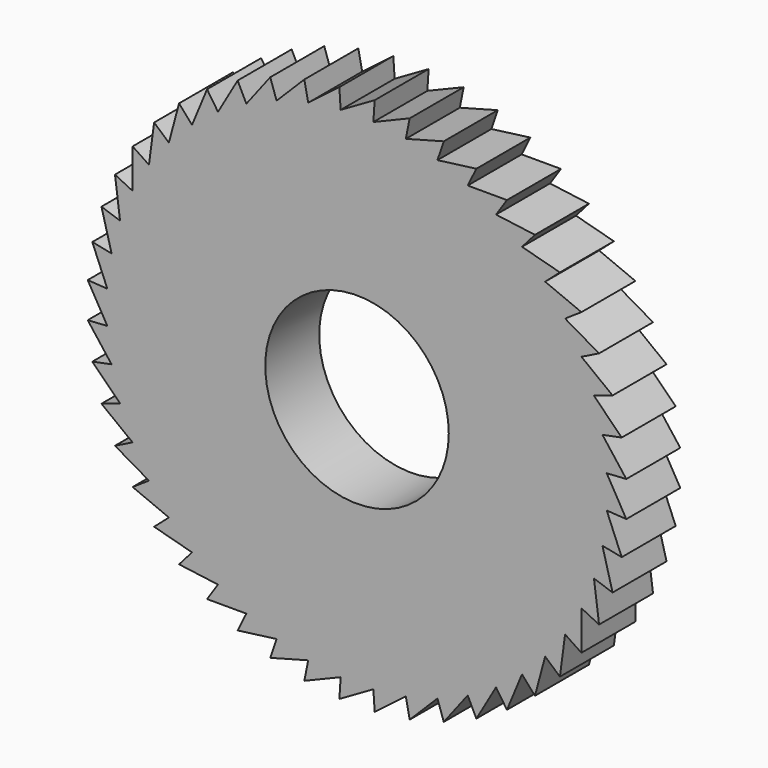
from build123d import *

# Parameters (mm, degrees)
F0_R     = 8.905875
F1_DEPTH = 9.525
F2_R     = 12.954
F2_R_2   = 8.905875
F3_DEPTH = 34.29


with BuildPart() as f1:
    # F0 (on Front) → F1 (new body)
    with BuildSketch(Plane.XZ):
        Polygon((-48.517683, 30.776316), (-53.640253, 28.657804), (-53.45877, 31.42681), (-58.260996, 28.657804), (-58.442479, 31.42681), (-62.842216, 28.054681), (-63.383566, 30.776316), (-67.305504, 26.858747), (-68.197476, 29.486428), (-71.574508, 25.090476), (-72.801836, 27.579244), (-75.576176, 22.780092), (-77.117854, 25.087377), (-79.242056, 19.967169), (-81.071695, 22.053499), (-82.509411, 16.699814), (-84.595716, 18.529478), (-85.322334, 13.033934), (-87.629619, 14.575612), (-87.632718, 9.032265), (-90.121486, 10.259593), (-89.40099, 4.763262), (-92.02867, 5.655234), (-90.596923, 0.299974), (-93.318559, 0.84135), (-91.200046, -4.281246), (-93.969053, -4.099738), (-91.200046, -8.901963), (-93.969053, -9.083472), (-90.596923, -13.483184), (-93.318559, -14.024534), (-89.40099, -17.946472), (-92.02867, -18.838443), (-87.632718, -22.215475), (-90.121486, -23.442803), (-85.322334, -26.217143), (-87.629619, -27.758822), (-82.509411, -29.883024), (-84.595716, -31.712687), (-79.242056, -33.150378), (-81.071695, -35.236709), (-75.576176, -35.963301), (-77.117854, -38.270586), (-71.574508, -38.273685), (-72.801836, -40.762453), (-67.305504, -40.041957), (-68.197476, -42.669638), (-62.842216, -41.237891), (-63.383566, -43.959526), (-58.260996, -41.841014), (-58.442479, -44.61002), (-53.640253, -41.841014), (-53.45877, -44.61002), (-49.059059, -41.237891), (-48.517683, -43.959526), (-44.595771, -40.041957), (-43.703799, -42.669638), (-40.326767, -38.273685), (-39.099439, -40.762453), (-36.325073, -35.963301), (-34.783395, -38.270586), (-32.659218, -33.150378), (-30.829555, -35.236709), (-29.391864, -29.883024), (-27.305533, -31.712687), (-26.578916, -26.217143), (-24.27163, -27.758822), (-24.268557, -22.215475), (-21.779789, -23.442803), (-22.500285, -17.946472), (-19.872604, -18.838443), (-21.304352, -13.483184), (-18.582716, -14.024534), (-20.701203, -8.901963), (-17.932197, -9.083472), (-20.701203, -4.281246), (-17.932197, -4.099738), (-21.304352, 0.299974), (-18.582716, 0.84135), (-22.500285, 4.763262), (-19.872604, 5.655234), (-24.268557, 9.032265), (-21.779789, 10.259593), (-26.578916, 13.033934), (-24.27163, 14.575612), (-29.391864, 16.699814), (-27.305533, 18.529478), (-32.659218, 19.967169), (-30.829555, 22.053499), (-36.325073, 22.780092), (-34.783395, 25.087377), (-40.326767, 25.090476), (-39.099439, 27.579244), (-44.595771, 26.858747), (-43.703799, 29.486428), (-49.059059, 28.054681), align=None)
        with Locations((-55.950637, -6.591605)):
            Circle(F0_R, mode=Mode.SUBTRACT)
    extrude(amount=F1_DEPTH)

    # F2 (on face) → F3 (cut)
    with BuildSketch(Plane.XZ.offset(9.525)):
        with Locations((-55.950637, -6.591605)):
            Circle(F2_R)
        with Locations((-55.950637, -6.591605)):
            Circle(F2_R_2, mode=Mode.SUBTRACT)
    extrude(amount=-F3_DEPTH, mode=Mode.SUBTRACT)


solid = f1.part
